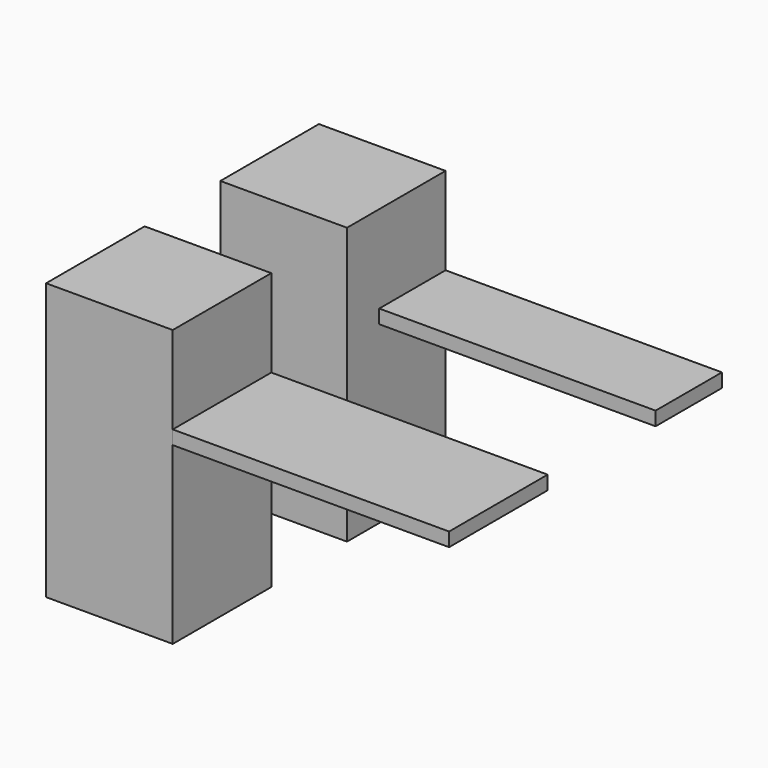
from build123d import *

# Parameters (mm, degrees)
F1_START = 965.2
F0_W     = 1524
F0_H     = 679.45
F1_DEPTH = 76.2
F0_H_2   = 457.2
F0_W_2   = 698.5
F2_DEPTH = 1524


with BuildPart() as f1:
    # F0 (on Top) → F1 (new body)
    with BuildSketch(Plane.XY.offset(F1_START)):
        with Locations((426.6736479466, -971.8554207087)):
            Rectangle(F0_W, F0_H)
    extrude(amount=F1_DEPTH)


with BuildPart() as f1b:
    # F0 (on Top) → F1, piece 2 (new body)
    with BuildSketch(Plane.XY.offset(F1_START)):
        with Locations((416.7758880812, 352.9013210833)):
            Rectangle(F0_W, F0_H_2)
    extrude(amount=F1_DEPTH)


with BuildPart() as f2:
    # F0 (on Top) → F2 (new body)
    with BuildSketch(Plane.XY):
        with Locations((-684.5763520534, -971.8554207087)):
            Rectangle(F0_W_2, F0_H)
    extrude(amount=F2_DEPTH)


with BuildPart() as f2b:
    # F0 (on Top) → F2, piece 2 (new body)
    with BuildSketch(Plane.XY):
        Polygon((-345.2241119188, 581.5013210833), (-1043.7241119188, 581.5013210833), (-1043.7241119188, -97.9486789167), (-345.2241119188, -97.9486789167), (-345.2241119188, 124.3013210833), align=None)
    extrude(amount=F2_DEPTH)


solid = Compound([f1.part, f1b.part, f2.part, f2b.part])
